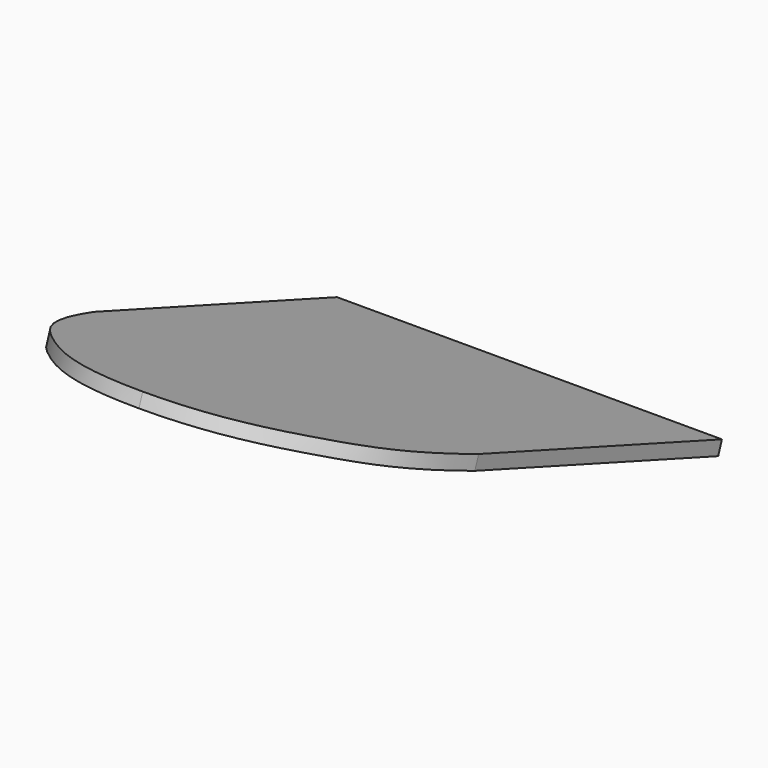
from build123d import *

# Parameters (mm, degrees)
F6_DEPTH = 2.5


with BuildPart() as f6:
    # F5 (on line) → F6 (new body)
    with BuildSketch(Plane(origin=(0, -22.497566339, -61.8115555092), x_dir=(1, 0, 0), z_dir=(0, 0.3420201433, 0.9396926208))):
        with BuildLine():
            add(Edge.make_bspline(
                [(0, -10.7600335032), (-12.424566783, -10.7759898528), (-25.8446539441, 0.2358042705), (-33.2600735128, 10.1268971339), (-35.0152626634, 23.9554308355)],
                knots=[0, 0, 0, 0, 0.5021229649, 1, 1, 1, 1], degree=3))
            add(Edge.make_bspline(
                [(0, -10.7600335032), (12.424566783, -10.7759898528), (25.8446539441, 0.2358042705), (33.2600735128, 10.1268971339), (35.0152626634, 23.9554308355)],
                knots=[0, 0, 0, 0, 0.5021229649, 1, 1, 1, 1], degree=3))
            Line((35.0152626634, 23.9554308355), (35.0152626634, 82.8513292865))
            Line((35.0152626634, 82.8513292865), (-35.0152626634, 82.8513292865))
            Line((-35.0152626634, 82.8513292865), (-35.0152626634, 23.9554308355))
        make_face()
    extrude(amount=F6_DEPTH)


solid = f6.part
